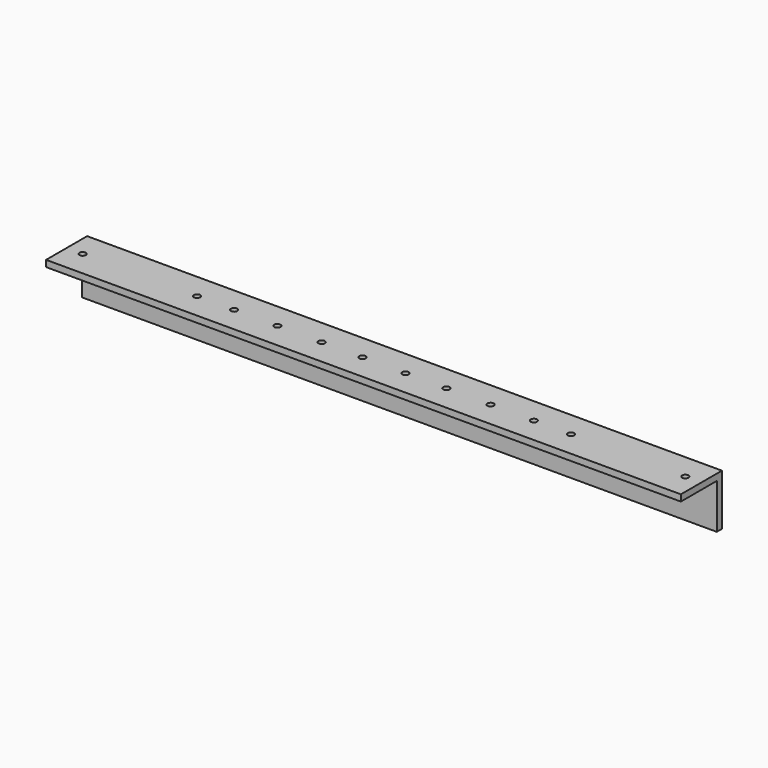
from build123d import *

# Parameters (mm, degrees)
F1_DEPTH = 314.325
F2_R     = 3.175
F3_DEPTH = 50.801
F4_R     = 3.175
F5_DEPTH = 50.801


with BuildPart() as f1:
    # F0 (on Right) → F1 (new body, symmetric)
    with BuildSketch(Plane.YZ):
        Polygon((0, 44.45), (0, 0), (6.35, 0), (6.35, 50.8), (-44.45, 50.8), (-44.45, 44.45), align=None)
    extrude(amount=F1_DEPTH, both=True)

    # F2 (on face) → F3 (cut, through all)
    with BuildSketch(Plane.XY.offset(50.8)):
        with Locations((-298.45, -19.05)):
            Circle(F2_R)
        with Locations((-105.56875, -19.05)):
            Circle(F2_R)
        with Locations((298.45, -19.05)):
            Circle(F2_R)
        with Locations((-148.43125, -19.05)):
            Circle(F2_R)
        with Locations((-21.43125, -19.05)):
            Circle(F2_R)
        with Locations((21.43125, -19.05)):
            Circle(F2_R)
        with Locations((105.56875, -19.05)):
            Circle(F2_R)
        with Locations((148.43125, -19.05)):
            Circle(F2_R)
    extrude(amount=-F3_DEPTH, mode=Mode.SUBTRACT)

    # F4 (on face) → F5 (cut, through all)
    with BuildSketch(Plane.XY.offset(50.8)):
        with Locations((-185.166, -19.05)):
            Circle(F4_R)
        with Locations((-61.722, -19.05)):
            Circle(F4_R)
        with Locations((61.722, -19.05)):
            Circle(F4_R)
        with Locations((185.166, -19.05)):
            Circle(F4_R)
    extrude(amount=-F5_DEPTH, mode=Mode.SUBTRACT)


solid = f1.part
